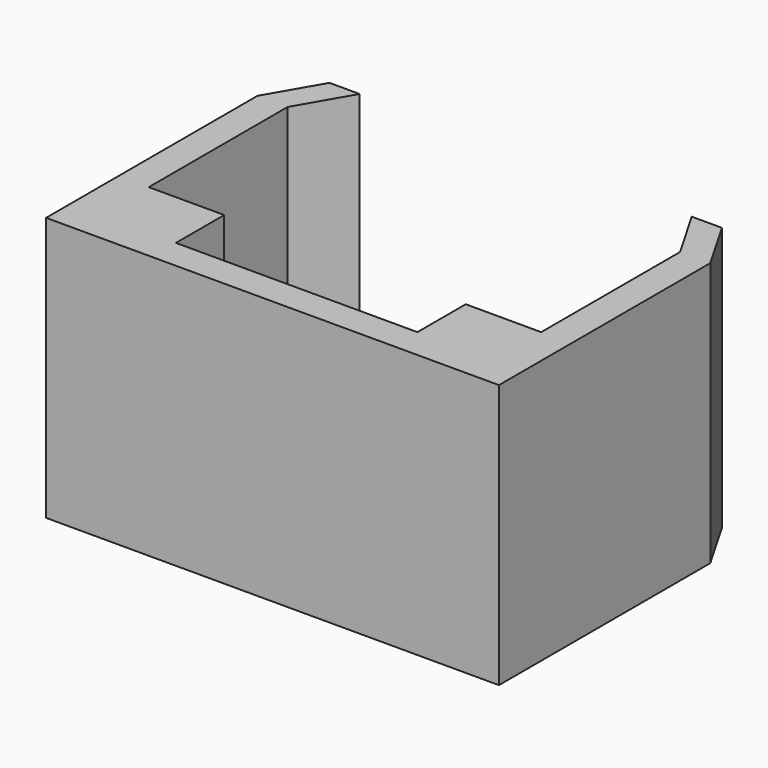
from build123d import *

# Parameters (mm, degrees)
F0_W     = 4
F0_H     = 4
F0_W_2   = 10
F0_H_2   = 8
F1_DEPTH = 35


with BuildPart() as f1:
    # F0 (on Top) → F1 (new body)
    with BuildSketch(Plane.XY):
        Polygon((-4, 31), (0, 31), (4, 37.928203), (0, 37.928203), align=None)
        Polygon((-4, 0), (0, 0), (0, 8), (0, 31), (-4, 31), align=None)
        with Locations((-2, -2)):
            Rectangle(F0_W, F0_H)
        Polygon((10, 0), (0, 0), (0, -4), (52, -4), (52, 0), (42, 0), align=None)
        with Locations((54, -2)):
            Rectangle(F0_W, F0_H)
        Polygon((52, 8), (52, 0), (56, 0), (56, 31), (52, 31), align=None)
        Polygon((48, 37.928203), (52, 31), (56, 31), (52, 37.928203), align=None)
        with Locations((5, 4)):
            Rectangle(F0_W_2, F0_H_2)
        with Locations((47, 4)):
            Rectangle(F0_W_2, F0_H_2)
    extrude(amount=F1_DEPTH)


solid = f1.part
